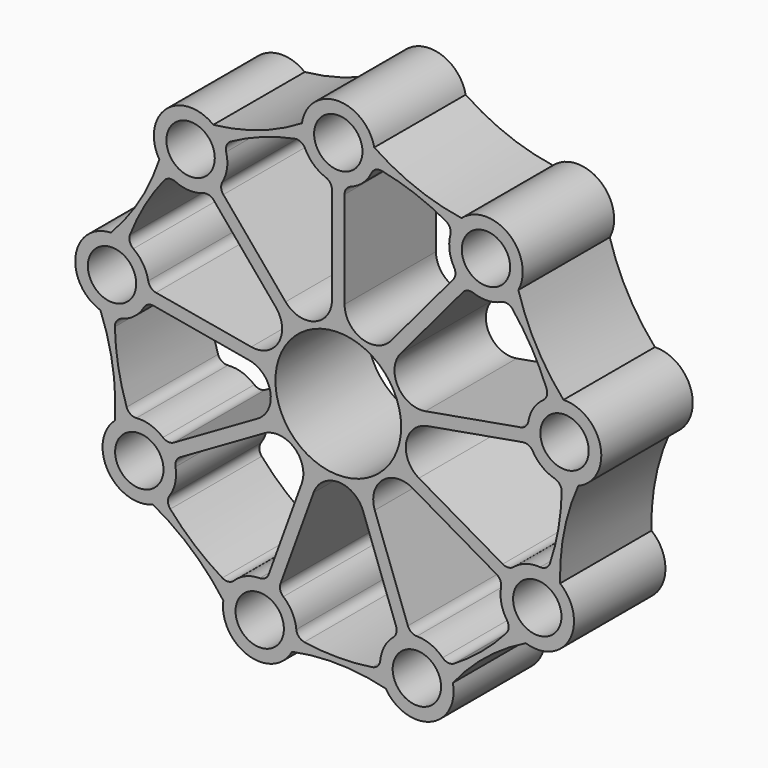
from build123d import *

# Parameters (mm, degrees)
F0_R     = 6.35
F0_R_2   = 16.51
F1_DEPTH = 30


with BuildPart() as f1:
    # F0 (on Front) → F1 (new body)
    with BuildSketch(Plane.XZ):
        with BuildLine():
            ThreePointArc((-9.550081, 61.723951), (-20.739602, 56.462445), (-32.81499, 53.802779))
            ThreePointArc((-32.81499, 53.802779), (-45.204788, 53.411206), (-46.991177, 41.144616))
            ThreePointArc((-46.991177, 41.144616), (-52.180817, 29.921583), (-59.721501, 20.122251))
            ThreePointArc((-59.721501, 20.122251), (-68.960938, 11.85828), (-62.444579, 1.313258))
            ThreePointArc((-62.444579, 1.313258), (-59.206048, -10.61992), (-58.683657, -22.973702))
            ThreePointArc((-58.683657, -22.973702), (-60.449499, -35.243267), (-48.679469, -39.132588))
            ThreePointArc((-48.679469, -39.132588), (-38.528111, -46.192245), (-30.187078, -55.320005))
            ThreePointArc((-30.187078, -55.320005), (-23.653067, -65.854098), (-12.136694, -61.267861))
            ThreePointArc((-12.136694, -61.267861), (0.177557, -60.150705), (12.43437, -61.781462))
            ThreePointArc((12.43437, -61.781462), (24.210897, -65.651064), (30.084975, -54.735221))
            ThreePointArc((30.084975, -54.735221), (38.800145, -45.963982), (49.237638, -39.334687))
            ThreePointArc((49.237638, -39.334687), (60.746314, -34.729168), (58.22955, -22.591363))
            ThreePointArc((58.22955, -22.591363), (59.267713, -10.2702), (63.002069, 1.517226))
            ThreePointArc((63.002069, 1.517226), (68.857855, 12.442892), (59.127871, 20.123245))
            ThreePointArc((59.127871, 20.123245), (52.00326, 30.229122), (47.287131, 41.659211))
            ThreePointArc((47.287131, 41.659211), (44.750041, 53.792784), (32.359604, 53.421963))
            ThreePointArc((32.359604, 53.421963), (20.405903, 56.583902), (9.446019, 62.308389))
            ThreePointArc((9.446019, 62.308389), (-0.296815, 69.972435), (-9.550081, 61.723951))
        make_face()
        with Locations((-20.632365, -56.686957)):
            Circle(F0_R, mode=Mode.SUBTRACT)
        with BuildLine():
            ThreePointArc((-8.916279, -57.992571), (-10.353373, -57.238726), (-11.02485, -55.76135))
            ThreePointArc((-11.02485, -55.76135), (-12.091611, -52.190667), (-14.431565, -49.290257))
            ThreePointArc((-14.431565, -49.290257), (-15.240139, -48.02201), (-15.174705, -46.519359))
            Line((-15.174705, -46.519359), (-6.483413, -22.640231))
            ThreePointArc((-6.483413, -22.640231), (0, -18.100496), (6.483413, -22.640231))
            Line((6.483413, -22.640231), (15.174705, -46.519359))
            ThreePointArc((15.174705, -46.519359), (15.240139, -48.02201), (14.431565, -49.290257))
            ThreePointArc((14.431565, -49.290257), (12.091611, -52.190667), (11.02485, -55.76135))
            ThreePointArc((11.02485, -55.76135), (10.353373, -57.238726), (8.916279, -57.992571))
            ThreePointArc((8.916279, -57.992571), (0, -58.674), (-8.916279, -57.992571))
        make_face(mode=Mode.SUBTRACT)
        with Locations((-52.242982, -30.1625)):
            Circle(F0_R, mode=Mode.SUBTRACT)
        with BuildLine():
            ThreePointArc((-58.659829, -1.289483), (-58.166986, 0.256682), (-56.828655, 1.174501))
            ThreePointArc((-56.828655, 1.174501), (-53.497459, 2.845099), (-51.047442, 5.653154))
            ThreePointArc((-51.047442, 5.653154), (-49.93887, 6.669673), (-48.447686, 6.866165))
            Line((-48.447686, 6.866165), (-23.422108, 2.45348))
            ThreePointArc((-23.422108, 2.45348), (-17.825509, -3.143118), (-21.170442, -10.31635))
            Line((-21.170442, -10.31635), (-43.177566, -23.022169))
            ThreePointArc((-43.177566, -23.022169), (-44.646026, -23.347542), (-46.035412, -22.77148))
            ThreePointArc((-46.035412, -22.77148), (-49.298087, -20.970727), (-52.999765, -20.540214))
            ThreePointArc((-52.999765, -20.540214), (-54.571297, -20.135483), (-55.563237, -18.851125))
            ThreePointArc((-55.563237, -18.851125), (-57.78261, -10.188633), (-58.659829, -1.289483))
        make_face(mode=Mode.SUBTRACT)
        with BuildLine():
            ThreePointArc((-44.107172, -38.693613), (-44.723488, -37.192388), (-44.28823, -35.629036))
            ThreePointArc((-44.28823, -35.629036), (-42.810226, -32.208032), (-42.738386, -28.482096))
            ThreePointArc((-42.738386, -28.482096), (-42.542577, -26.990821), (-41.526566, -25.881785))
            Line((-41.526566, -25.881785), (-19.519442, -13.175966))
            ThreePointArc((-19.519442, -13.175966), (-11.634775, -13.865785), (-9.586278, -21.51088))
            Line((-9.586278, -21.51088), (-18.27757, -45.390009))
            ThreePointArc((-18.27757, -45.390009), (-19.193329, -46.583167), (-20.627946, -47.034958))
            ThreePointArc((-20.627946, -47.034958), (-24.284802, -47.752708), (-27.39718, -49.802309))
            ThreePointArc((-27.39718, -49.802309), (-28.8612, -50.502428), (-30.44664, -50.15616))
            ThreePointArc((-30.44664, -50.15616), (-37.71492, -44.946892), (-44.107172, -38.693613))
        make_face(mode=Mode.SUBTRACT)
        with Locations((20.632365, -56.686957)):
            Circle(F0_R, mode=Mode.SUBTRACT)
        with BuildLine():
            ThreePointArc((30.44664, -50.15616), (28.8612, -50.502428), (27.39718, -49.802309))
            ThreePointArc((27.39718, -49.802309), (24.284802, -47.752708), (20.627946, -47.034958))
            ThreePointArc((20.627946, -47.034958), (19.193329, -46.583167), (18.27757, -45.390009))
            Line((18.27757, -45.390009), (9.586278, -21.51088))
            ThreePointArc((9.586278, -21.51088), (11.634775, -13.865785), (19.519442, -13.175966))
            Line((19.519442, -13.175966), (41.526566, -25.881785))
            ThreePointArc((41.526566, -25.881785), (42.542577, -26.990821), (42.738386, -28.482096))
            ThreePointArc((42.738386, -28.482096), (42.810226, -32.208032), (44.28823, -35.629036))
            ThreePointArc((44.28823, -35.629036), (44.723488, -37.192388), (44.107172, -38.693613))
            ThreePointArc((44.107172, -38.693613), (37.71492, -44.946892), (30.44664, -50.15616))
        make_face(mode=Mode.SUBTRACT)
        Circle(F0_R_2, mode=Mode.SUBTRACT)
        with Locations((52.242982, -30.1625)):
            Circle(F0_R, mode=Mode.SUBTRACT)
        with BuildLine():
            ThreePointArc((55.563237, -18.851125), (54.571297, -20.135483), (52.999765, -20.540214))
            ThreePointArc((52.999765, -20.540214), (49.298087, -20.970727), (46.035412, -22.77148))
            ThreePointArc((46.035412, -22.77148), (44.646026, -23.347542), (43.177566, -23.022169))
            Line((43.177566, -23.022169), (21.170442, -10.31635))
            ThreePointArc((21.170442, -10.31635), (17.825509, -3.143118), (23.422108, 2.45348))
            Line((23.422108, 2.45348), (48.447686, 6.866165))
            ThreePointArc((48.447686, 6.866165), (49.93887, 6.669673), (51.047442, 5.653154))
            ThreePointArc((51.047442, 5.653154), (53.497459, 2.845099), (56.828655, 1.174501))
            ThreePointArc((56.828655, 1.174501), (58.166986, 0.256682), (58.659829, -1.289483))
            ThreePointArc((58.659829, -1.289483), (57.78261, -10.188633), (55.563237, -18.851125))
        make_face(mode=Mode.SUBTRACT)
        with Locations((-59.408528, 10.475326)):
            Circle(F0_R, mode=Mode.SUBTRACT)
        with BuildLine():
            ThreePointArc((-54.681179, 21.274561), (-50.813175, 29.337), (-45.7649, 36.71801))
            ThreePointArc((-45.7649, 36.71801), (-44.393504, 37.585647), (-42.778321, 37.428475))
            ThreePointArc((-42.778321, 37.428475), (-39.152637, 36.566976), (-35.470832, 37.14323))
            ThreePointArc((-35.470832, 37.14323), (-33.968211, 37.209353), (-32.699595, 36.401359))
            Line((-32.699595, 36.401359), (-16.365309, 16.934915))
            ThreePointArc((-16.365309, 16.934915), (-15.67549, 9.050248), (-22.848721, 5.705315))
            Line((-22.848721, 5.705315), (-47.874299, 10.118))
            ThreePointArc((-47.874299, 10.118), (-49.208351, 10.812657), (-49.902397, 12.147026))
            ThreePointArc((-49.902397, 12.147026), (-51.244249, 15.623691), (-53.80317, 18.332875))
            ThreePointArc((-53.80317, 18.332875), (-54.746878, 19.653079), (-54.681179, 21.274561))
        make_face(mode=Mode.SUBTRACT)
        with Locations((-38.776163, 46.211631)):
            Circle(F0_R, mode=Mode.SUBTRACT)
        with BuildLine():
            ThreePointArc((-11.456065, 57.544738), (-9.847809, 57.327871), (-8.711535, 56.16925))
            ThreePointArc((-8.711535, 56.16925), (-6.487861, 53.178759), (-3.297025, 51.253576))
            ThreePointArc((-3.297025, 51.253576), (-2.103448, 50.338363), (-1.651, 48.903954))
            Line((-1.651, 48.903954), (-1.651, 23.492316))
            ThreePointArc((-1.651, 23.492316), (-6.190734, 17.008903), (-13.83583, 19.0574))
            Line((-13.83583, 19.0574), (-30.170116, 38.523844))
            ThreePointArc((-30.170116, 38.523844), (-30.745541, 39.913494), (-30.419496, 41.381804))
            ThreePointArc((-30.419496, 41.381804), (-29.212657, 44.90761), (-29.431475, 48.627809))
            ThreePointArc((-29.431475, 48.627809), (-29.305786, 50.245746), (-28.213189, 51.445644))
            ThreePointArc((-28.213189, 51.445644), (-20.06769, 55.135525), (-11.456065, 57.544738))
        make_face(mode=Mode.SUBTRACT)
        with Locations((59.408528, 10.475326)):
            Circle(F0_R, mode=Mode.SUBTRACT)
        with BuildLine():
            ThreePointArc((54.681179, 21.274561), (54.746878, 19.653079), (53.80317, 18.332875))
            ThreePointArc((53.80317, 18.332875), (51.244249, 15.623691), (49.902397, 12.147026))
            ThreePointArc((49.902397, 12.147026), (49.208351, 10.812657), (47.874299, 10.118))
            Line((47.874299, 10.118), (22.848721, 5.705315))
            ThreePointArc((22.848721, 5.705315), (15.67549, 9.050248), (16.365309, 16.934915))
            Line((16.365309, 16.934915), (32.699595, 36.401359))
            ThreePointArc((32.699595, 36.401359), (33.968211, 37.209353), (35.470832, 37.14323))
            ThreePointArc((35.470832, 37.14323), (39.152637, 36.566976), (42.778321, 37.428475))
            ThreePointArc((42.778321, 37.428475), (44.393504, 37.585647), (45.7649, 36.71801))
            ThreePointArc((45.7649, 36.71801), (50.813175, 29.337), (54.681179, 21.274561))
        make_face(mode=Mode.SUBTRACT)
        with BuildLine():
            ThreePointArc((28.213189, 51.445644), (29.305786, 50.245746), (29.431475, 48.627809))
            ThreePointArc((29.431475, 48.627809), (29.212657, 44.90761), (30.419496, 41.381804))
            ThreePointArc((30.419496, 41.381804), (30.745541, 39.913494), (30.170116, 38.523844))
            Line((30.170116, 38.523844), (13.83583, 19.0574))
            ThreePointArc((13.83583, 19.0574), (6.190734, 17.008903), (1.651, 23.492316))
            Line((1.651, 23.492316), (1.651, 48.903954))
            ThreePointArc((1.651, 48.903954), (2.103448, 50.338363), (3.297025, 51.253576))
            ThreePointArc((3.297025, 51.253576), (6.487861, 53.178759), (8.711535, 56.16925))
            ThreePointArc((8.711535, 56.16925), (9.847809, 57.327871), (11.456065, 57.544738))
            ThreePointArc((11.456065, 57.544738), (20.06769, 55.135525), (28.213189, 51.445644))
        make_face(mode=Mode.SUBTRACT)
        with Locations((0, 60.325)):
            Circle(F0_R, mode=Mode.SUBTRACT)
        with Locations((38.776163, 46.211631)):
            Circle(F0_R, mode=Mode.SUBTRACT)
    extrude(amount=-F1_DEPTH)


solid = f1.part
